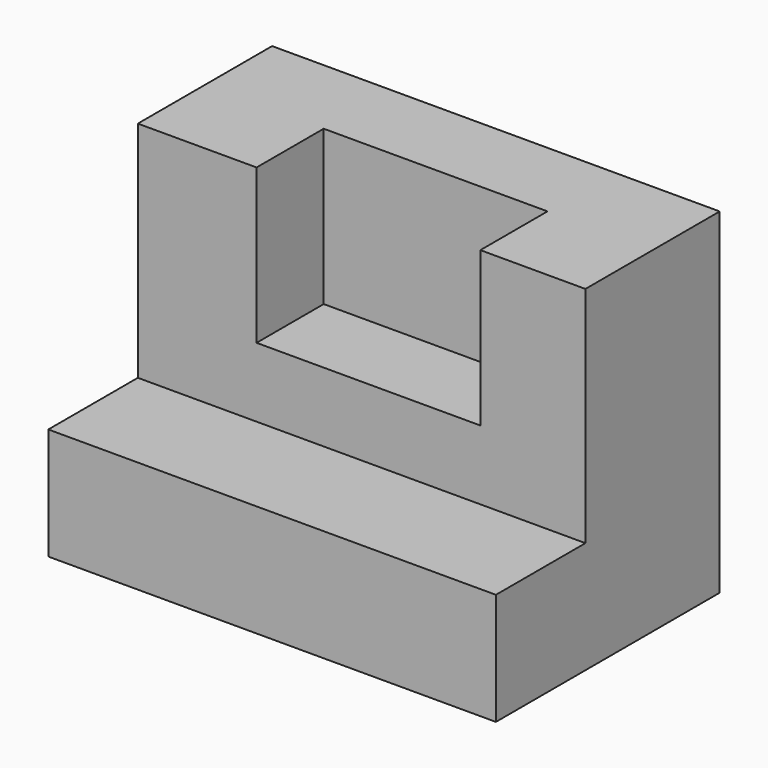
from build123d import *

# Parameters (mm, degrees)
F1_DEPTH = 101.6
F2_W     = 50.8
F2_H     = 35.0451488608
F3_DEPTH = 19.05


with BuildPart() as f1:
    # F0 (on Right) → F1 (new body)
    with BuildSketch(Plane.YZ):
        Polygon((-30.5847906619, -7.9963059156), (-30.5847906619, -33.3963059156), (32.9152093381, -33.3963059156), (32.9152093381, 42.8036940844), (-5.1847906619, 42.8036940844), (-5.1847906619, -7.9963059156), align=None)
    extrude(amount=-F1_DEPTH)

    # F2 (on face) → F3 (cut)
    with BuildSketch(Plane.XZ.offset(5.1847906619)):
        with Locations((-49.2471360326, 25.281119654)):
            Rectangle(F2_W, F2_H)
    extrude(amount=-F3_DEPTH, mode=Mode.SUBTRACT)


solid = f1.part
